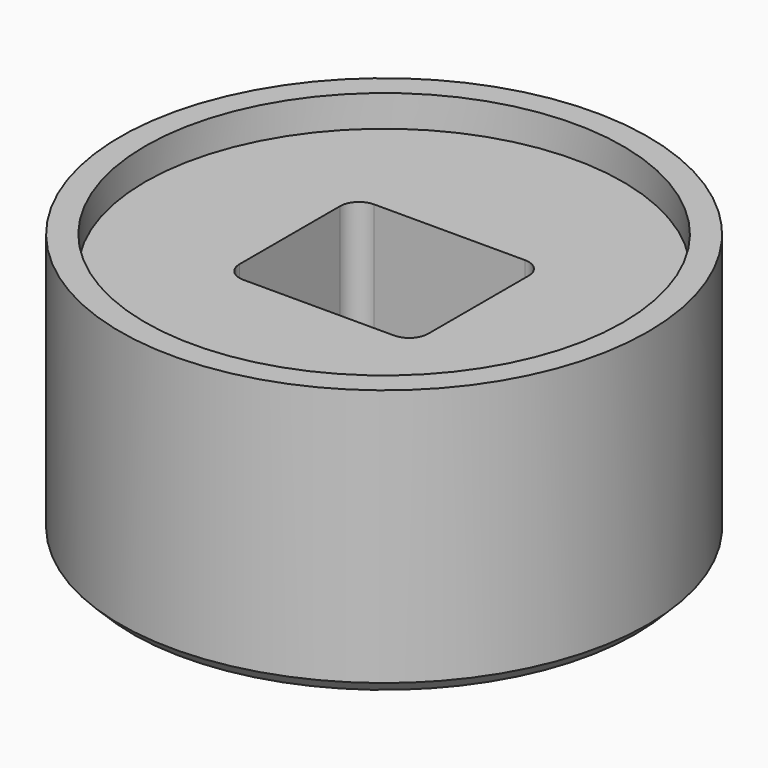
from build123d import *

# Parameters (mm, degrees)
F0_R     = 21
F0_R_2   = 0.8
F1_DEPTH = 5
F2_R     = 21
F3_DEPTH = 14
F4_R     = 21
F4_R_2   = 19
F5_DEPTH = 2.5
F6_SIZE  = 1


with BuildPart() as f1:
    # F0 (on Top) → F1 (new body)
    with BuildSketch(Plane.XY):
        Circle(F0_R)
        with Locations((-10, 0)):
            Circle(F0_R_2, mode=Mode.SUBTRACT)
        with BuildLine():
            Line((6, -6.5), (-6, -6.5))
            ThreePointArc((-6, -6.5), (-7.06066, -6.06066), (-7.5, -5))
            Line((-7.5, -5), (-7.5, 5))
            ThreePointArc((-7.5, 5), (-7.06066, 6.06066), (-6, 6.5))
            Line((-6, 6.5), (6, 6.5))
            ThreePointArc((6, 6.5), (7.06066, 6.06066), (7.5, 5))
            Line((7.5, 5), (7.5, -5))
            ThreePointArc((7.5, -5), (7.06066, -6.06066), (6, -6.5))
        make_face(mode=Mode.SUBTRACT)
        with Locations((10, 0)):
            Circle(F0_R_2, mode=Mode.SUBTRACT)
    extrude(amount=F1_DEPTH)

    # F2 (on face) → F3 (join)
    with BuildSketch(Plane.XY.offset(5)):
        Circle(F2_R)
        with BuildLine():
            Line((6, -6.5), (-6, -6.5))
            ThreePointArc((-6, -6.5), (-7.06066, -6.06066), (-7.5, -5))
            Line((-7.5, -5), (-7.5, 5))
            ThreePointArc((-7.5, 5), (-7.06066, 6.06066), (-6, 6.5))
            Line((-6, 6.5), (6, 6.5))
            ThreePointArc((6, 6.5), (7.06066, 6.06066), (7.5, 5))
            Line((7.5, 5), (7.5, -5))
            ThreePointArc((7.5, -5), (7.06066, -6.06066), (6, -6.5))
        make_face(mode=Mode.SUBTRACT)
    extrude(amount=F3_DEPTH)

    # F4 (on face) → F5 (join)
    with BuildSketch(Plane.XY.offset(19)):
        Circle(F4_R)
        Circle(F4_R_2, mode=Mode.SUBTRACT)
    extrude(amount=F5_DEPTH)

    # F6
    f6_edges = [f1.edges().sort_by_distance(p)[0] for p in [
        (-21, 0, 0),
    ]]
    chamfer(f6_edges, length=F6_SIZE)


solid = f1.part
